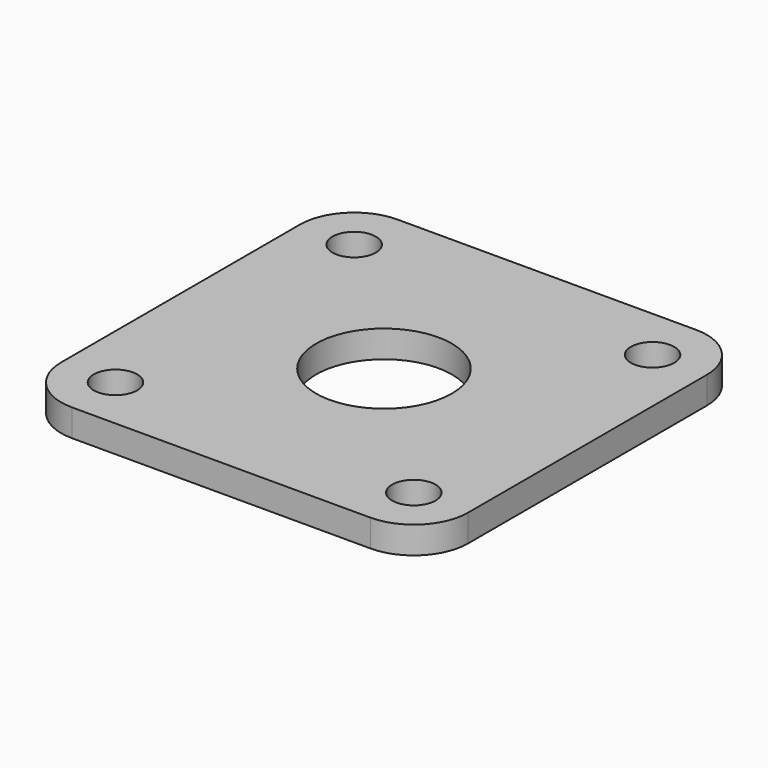
from build123d import *

# Parameters (mm, degrees)
CYLINDER021_R       = 5
CYLINDER021_DEPTH   = 15
CYLINDER020_R       = 1.6
CYLINDER020_DEPTH   = 20
ARRAY001006_X_COUNT = 2
ARRAY001006_X_PITCH = 22
ARRAY001006_Y_COUNT = 2
ARRAY001006_Y_PITCH = 22
BOX007_W            = 30
BOX007_H            = 30
BOX007_DEPTH        = 2
FILLET004_R         = 4


with BuildPart() as side_bearing_central_hole_cylinder001:
    # Cylinder021 → Cylinder021 (new body)
    with BuildSketch(Plane(origin=(15, 15, -4), x_dir=(1, 0, 0), z_dir=(0, 0, 1))):
        Circle(CYLINDER021_R)
    extrude(amount=CYLINDER021_DEPTH)


with BuildPart() as fusion008:
    # Cylinder020 → Cylinder020 (new body)
    with BuildSketch(Plane(origin=(4, 4, -7), x_dir=(1, 0, 0), z_dir=(0, 0, 1))):
        Circle(CYLINDER020_R)
    extrude(amount=CYLINDER020_DEPTH)

    # Array001006 X: Fusion008 ×2


with BuildPart() as fusion008_1:
    add(fusion008.part)
    with Locations(*[(i * ARRAY001006_X_PITCH, 0, 0) for i in range(1, ARRAY001006_X_COUNT)]):
        add(fusion008.part)

    # Array001006 Y: Fusion008 ×2


with BuildPart() as fusion008_2:
    add(fusion008_1.part)
    with Locations(*[(0, i * ARRAY001006_Y_PITCH, 0) for i in range(1, ARRAY001006_Y_COUNT)]):
        add(fusion008_1.part)

    # Fusion008: union side bearing central hole cylinder001
    add(side_bearing_central_hole_cylinder001.part)


with BuildPart() as bearing_cover_fillet:
    # Box007 → Box007 (new body)
    with BuildSketch(Plane.XY):
        with Locations((15, 15)):
            Rectangle(BOX007_W, BOX007_H)
    extrude(amount=BOX007_DEPTH)

    # Cut005: cut Fusion008
    add(fusion008_2.part, mode=Mode.SUBTRACT)

    # Fillet004
    fillet004_edges = [bearing_cover_fillet.edges().sort_by_distance(p)[0] for p in [
        (0, 0, 1),
        (0, 30, 1),
        (30, 0, 1),
        (30, 30, 1),
    ]]
    fillet(fillet004_edges, radius=FILLET004_R)


solid = bearing_cover_fillet.part
